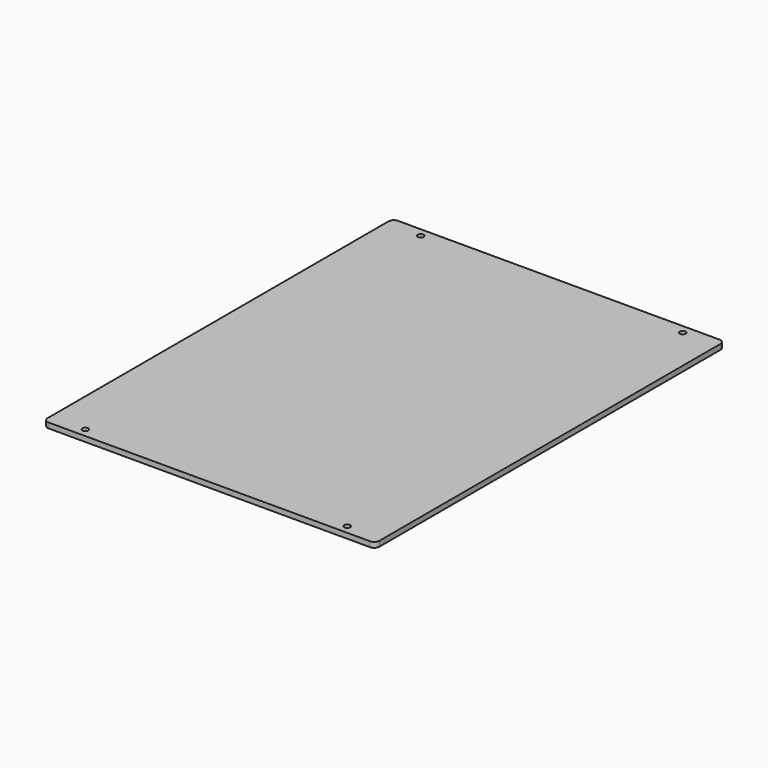
from build123d import *

# Parameters (mm, degrees)
F0_W     = 190
F0_H     = 250
F0_R     = 1.7
F1_DEPTH = 3
F2_R     = 3


with BuildPart() as f1:
    # F0 (on Top) → F1 (new body)
    with BuildSketch(Plane.XY):
        Rectangle(F0_W, F0_H)
        with Locations((-75, -120)):
            Circle(F0_R, mode=Mode.SUBTRACT)
        with Locations((75, -120)):
            Circle(F0_R, mode=Mode.SUBTRACT)
        with Locations((-75, 120)):
            Circle(F0_R, mode=Mode.SUBTRACT)
        with Locations((75, 120)):
            Circle(F0_R, mode=Mode.SUBTRACT)
    extrude(amount=-F1_DEPTH)

    # F2
    f2_edges = [f1.edges().sort_by_distance(p)[0] for p in [
        (95, 125, -1.5),
        (-95, 125, -1.5),
        (95, -125, -1.5),
        (-95, -125, -1.5),
    ]]
    fillet(f2_edges, radius=F2_R)


solid = f1.part
